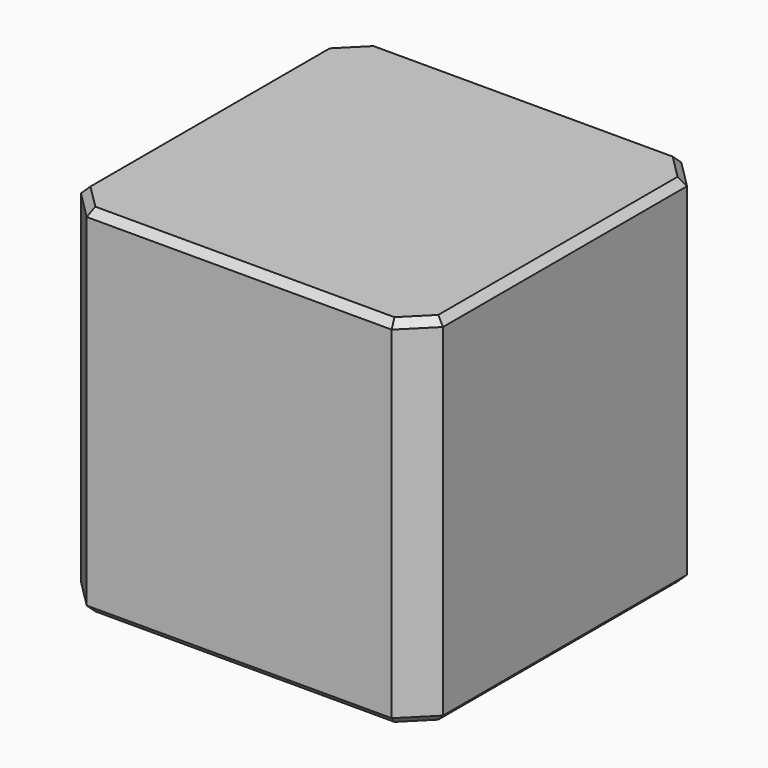
from build123d import *

# Parameters (mm, degrees)
SKETCH208_W     = 2.54
SKETCH208_H     = 2.54
PAD063_DEPTH    = 2.5
CHAMFER014_SIZE = 0.2
CHAMFER013_SIZE = 0.05


with BuildPart() as part:
    # Sketch208 → Pad063 (new body)
    with BuildSketch(Plane.XY):
        Rectangle(SKETCH208_W, SKETCH208_H)
    extrude(amount=PAD063_DEPTH)

    # Chamfer014
    chamfer014_edges = [part.edges().sort_by_distance(p)[0] for p in [
        (1.27, -1.27, 1.25),
        (-1.27, -1.27, 1.25),
        (1.27, 1.27, 1.25),
        (-1.27, 1.27, 1.25),
    ]]
    chamfer(chamfer014_edges, length=CHAMFER014_SIZE)

    # Chamfer013
    chamfer013_edges = [part.edges().sort_by_distance(p)[0] for p in [
        (0, -1.27, 2.5),
        (-1.17, -1.17, 2.5),
        (1.17, -1.17, 2.5),
        (-1.27, 0, 2.5),
        (1.27, 0, 2.5),
        (-1.17, 1.17, 2.5),
        (1.17, 1.17, 2.5),
        (0, 1.27, 2.5),
        (0, -1.27, 0),
        (-1.17, -1.17, 0),
        (1.17, -1.17, 0),
        (-1.27, 0, 0),
        (1.27, 0, 0),
        (-1.17, 1.17, 0),
        (1.17, 1.17, 0),
        (0, 1.27, 0),
    ]]
    chamfer(chamfer013_edges, length=CHAMFER013_SIZE)


solid = part.part
